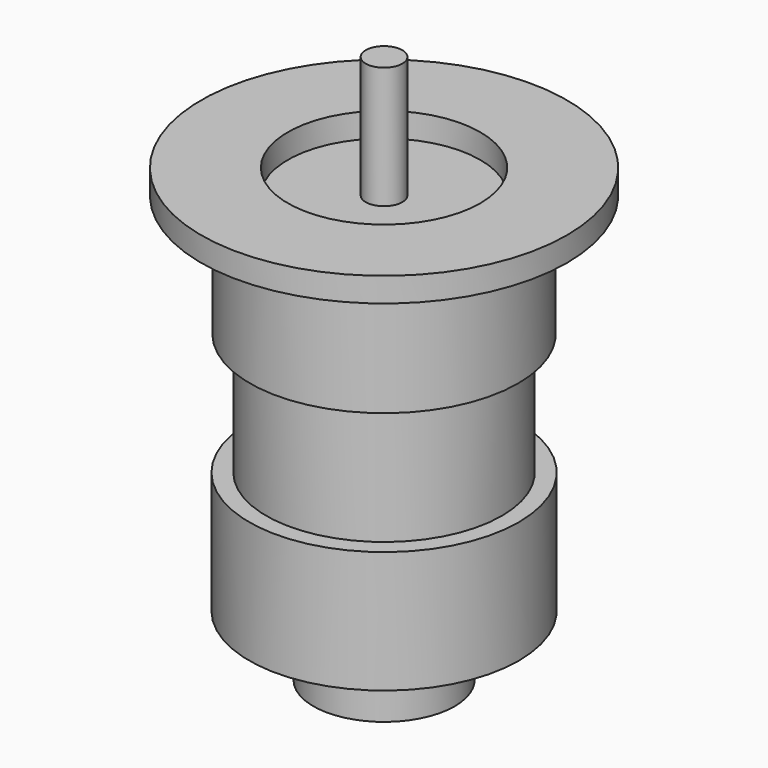
from build123d import *

# Parameters (mm, degrees)
F0_R      = 55
F1_DEPTH  = 50
F2_R      = 75
F3_DEPTH  = 10
F4_R      = 48.288599
F5_DEPTH  = 50
F6_R      = 55.291739
F7_DEPTH  = 50
F8_R      = 39.467294
F9_DEPTH  = 10
F10_R     = 7.5
F11_DEPTH = 50
F12_R     = 28.99692
F13_DEPTH = 25


with BuildPart() as f1:
    # F0 (on Top) → F1 (new body)
    with BuildSketch(Plane.XY):
        Circle(F0_R)
    extrude(amount=F1_DEPTH)

    # F2 (on face) → F3 (join)
    with BuildSketch(Plane.XY.offset(50)):
        Circle(F2_R)
    extrude(amount=F3_DEPTH)

    # F4 (on face) → F5 (join)
    with BuildSketch(Plane(origin=(0, 0, 0), x_dir=(1, 0, 0), z_dir=(0, 0, -1))):
        Circle(F4_R)
    extrude(amount=F5_DEPTH)

    # F6 (on face) → F7 (join)
    with BuildSketch(Plane(origin=(0, 0, -50), x_dir=(1, 0, 0), z_dir=(0, 0, -1))):
        Circle(F6_R)
    extrude(amount=F7_DEPTH)

    # F8 (on face) → F9 (cut)
    with BuildSketch(Plane.XY.offset(60)):
        Circle(F8_R)
    extrude(amount=-F9_DEPTH, mode=Mode.SUBTRACT)

    # F10 (on face) → F11 (join)
    with BuildSketch(Plane.XY.offset(50)):
        Circle(F10_R)
    extrude(amount=F11_DEPTH)

    # F12 (on face) → F13 (join)
    with BuildSketch(Plane(origin=(0, 0, -100), x_dir=(1, 0, 0), z_dir=(0, 0, -1))):
        Circle(F12_R)
    extrude(amount=F13_DEPTH)


solid = f1.part
